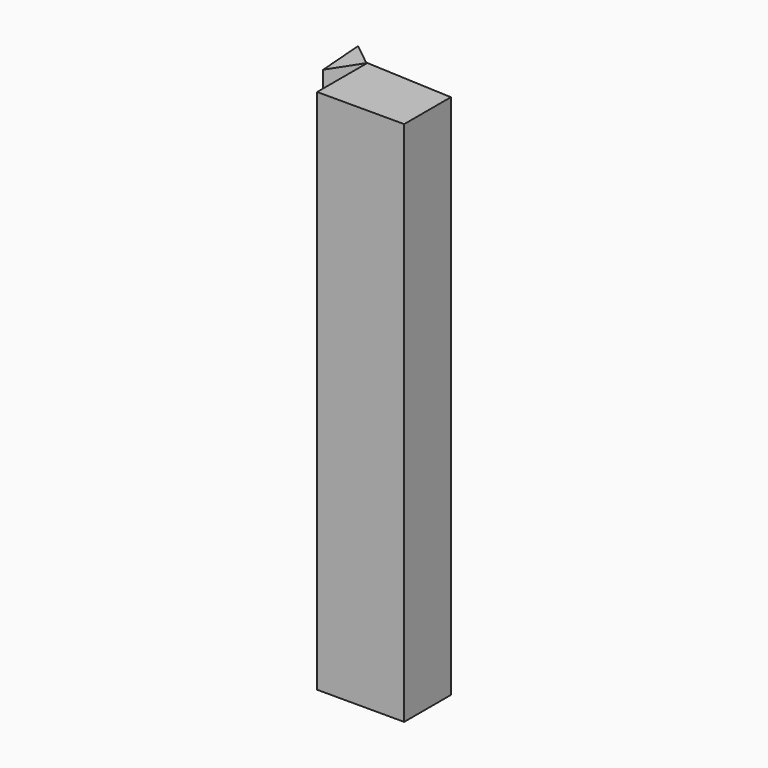
from build123d import *

# Parameters (mm, degrees)
F1_DEPTH = 508


with BuildPart() as f1:
    # F0 (on Top) → F1 (new body)
    with BuildSketch(Plane.XY):
        Polygon((42.754158, 27.207192), (-41.23738, 31.500094), (-41.23738, -29.103164), (42.754158, -29.103164), align=None)
        Polygon((-41.23738, 31.567927), (-41.280157, 31.50228), (-41.23738, 31.500094), align=None)
        Polygon((-41.280157, 31.50228), (-42.564563, 31.567927), (-63.989043, 48.631672), (-60.386695, 2.180367), align=None)
    extrude(amount=F1_DEPTH)


solid = f1.part
